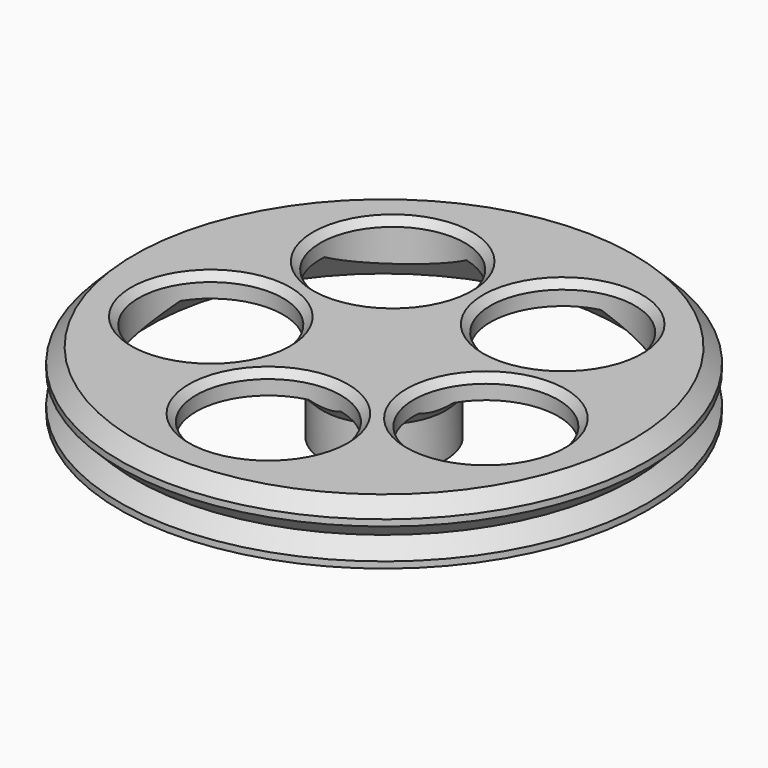
from build123d import *

# Parameters (mm, degrees)
CYLINDER001_R          = 1.625
CYLINDER001_DEPTH      = 10
CYLINDER001_ROLL_ANGLE = -90
PAD_DEPTH              = 1.25
CYLINDER_R             = 8.5
CYLINDER_DEPTH         = 10
SKETCH001_R            = 2.625
POCKET_DEPTH           = 1.5
POCKET001_DEPTH        = 6.5
SKETCH004_W            = 18
SKETCH004_H            = 2
POCKET002_DEPTH        = 10.001
CHAMFER_SIZE           = 2
SKETCH005_R            = 10
POCKET003_DEPTH        = 3
POLARPATTERN_COUNT     = 5
CHAMFER001_SIZE        = 1


with BuildPart() as wheelrevolution:
    # Sketch → Revolution (revolve)
    with BuildSketch(Plane.XZ):
        Polygon((34.5, 5), (36.5, 3), (36.5, 2.12132), (34.37868, 0), (36.5, -2.12132), (36.5, -3), (32.5, -3), (27.5, 2), (0, 2), (0, 5), align=None)
    revolve(axis=Axis((0, 0, 0), (0, 0, 1)))


with BuildPart() as wheelshaftscrewcylinder001:
    # Cylinder001 → Cylinder001 (new body)
    with BuildSketch(Plane.XY):
        Circle(CYLINDER001_R)
    extrude(amount=CYLINDER001_DEPTH)


with BuildPart() as wheelshaftscrewcylinder001_1:
    # Cylinder001 roll: moved
    add(wheelshaftscrewcylinder001.part.rotate(Axis((0, 0, 0), (1, 0, 0)), CYLINDER001_ROLL_ANGLE))


with BuildPart() as wheelshaftscrewcylinder001_2:
    # Cylinder001 placement: moved
    add(wheelshaftscrewcylinder001_1.part.moved(Location((0, 0, -2))))


with BuildPart() as wheelshaftnutscrewfusion:
    # Sketch003 → Pad (new body, symmetric)
    with BuildSketch(Plane.XZ):
        Polygon((2.875, -5), (2.875, 1.659882), (0, 3.319764), (-2.875, 1.659882), (-2.875, -5), align=None)
    extrude(amount=PAD_DEPTH, both=True)


with BuildPart() as wheelshaftnutscrewfusion_1:
    # Clone placement: moved
    add(wheelshaftnutscrewfusion.part.moved(Location((0, 4.875, -2))))

    # Fusion: union WheelShaftScrewCylinder001
    add(wheelshaftscrewcylinder001_2.part)


with BuildPart() as wheelcutoutchamfer001_final:
    # Cylinder → Cylinder (new body)
    with BuildSketch(Plane.XY.offset(-6)):
        Circle(CYLINDER_R)
    extrude(amount=CYLINDER_DEPTH)

    # Sketch001 → Pocket (cut)
    with BuildSketch(Plane(origin=(0, 0, -6), x_dir=(1, 0, 0), z_dir=(0, 0, -1))):
        Circle(SKETCH001_R)
    extrude(amount=-POCKET_DEPTH, mode=Mode.SUBTRACT)

    # Sketch002 → Pocket001 (cut)
    with BuildSketch(Plane(origin=(0, 0, -4.5), x_dir=(1, 0, 0), z_dir=(0, 0, -1))):
        with BuildLine():
            ThreePointArc((-2.061553, 1.625), (0, -2.625), (2.061553, 1.625))
            Line((2.061553, 1.625), (-2.061553, 1.625))
        make_face()
    extrude(amount=-POCKET001_DEPTH, mode=Mode.SUBTRACT)

    # Cut: cut WheelShaftNutScrewFusion
    add(wheelshaftnutscrewfusion_1.part, mode=Mode.SUBTRACT)

    # Sketch004 → Pocket002 (cut, through all)
    with BuildSketch(Plane(origin=(0, 0, -6), x_dir=(1, 0, 0), z_dir=(0, 0, -1))):
        with Locations((0, -8.625)):
            Rectangle(SKETCH004_W, SKETCH004_H)
    extrude(amount=-POCKET002_DEPTH, mode=Mode.SUBTRACT)

    # Fusion001: union WheelRevolution
    add(wheelrevolution.part)

    # Chamfer
    chamfer_edges = [wheelcutoutchamfer001_final.edges().sort_by_distance(p)[0] for p in [
        (-4.490096, -7.217274, 2),
    ]]
    chamfer(chamfer_edges, length=CHAMFER_SIZE)

    # Sketch005 → Pocket003 (cut, symmetric)
    with BuildSketch(Plane(origin=(0, 0, 2), x_dir=(1, 0, 0), z_dir=(0, 0, -1))):
        with Locations((0, 20)):
            Circle(SKETCH005_R)
    pocket003 = extrude(amount=POCKET003_DEPTH, both=True, mode=Mode.SUBTRACT)

    # PolarPattern: Pocket003 ×5 about axis
    polarpattern_axis = Axis((0, 0, 2), (0, 0, -1))
    for i in range(1, POLARPATTERN_COUNT):
        add(pocket003.rotate(polarpattern_axis, i * 360 / POLARPATTERN_COUNT), mode=Mode.SUBTRACT)

    # Chamfer001
    chamfer001_edges = [wheelcutoutchamfer001_final.edges().sort_by_distance(p)[0] for p in [
        (19.845875, 10.302487, 5),
        (15.93096, -15.690905, 5),
        (-10, -20, 5),
        (-22.1113, 3.330225, 5),
        (-3.665535, 22.058192, 5),
    ]]
    chamfer(chamfer001_edges, length=CHAMFER001_SIZE)


solid = wheelcutoutchamfer001_final.part
